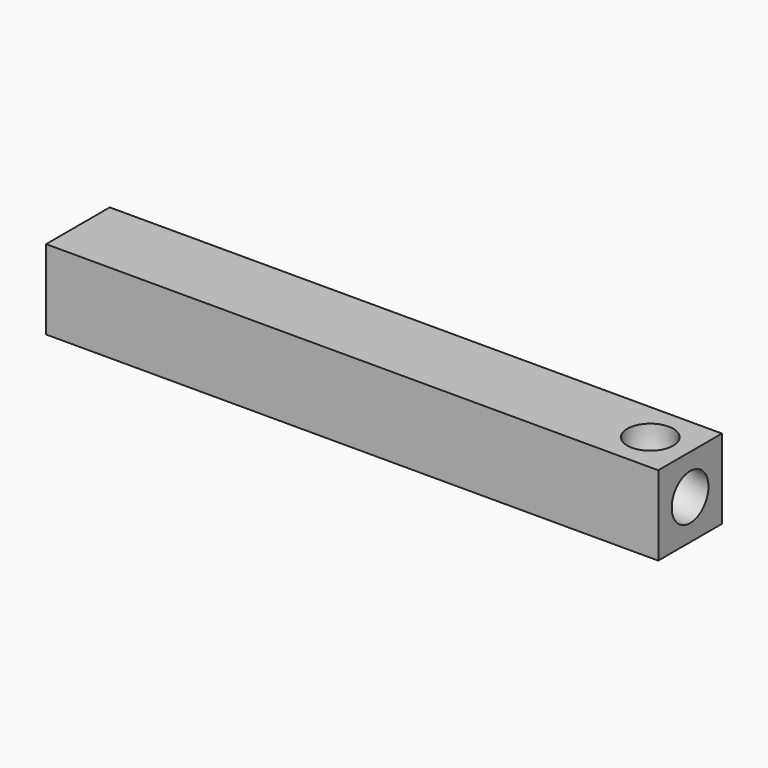
from build123d import *

# Parameters (mm, degrees)
F0_W     = 25.4
F0_H     = 3.302
F1_DEPTH = 3.302
F2_R     = 1
F3_DEPTH = 5.08
F4_R     = 0.9525


with BuildPart() as f1:
    # F0 (on Top) → F1 (new body)
    with BuildSketch(Plane.XY):
        with Locations((12.7, 1.651)):
            Rectangle(F0_W, F0_H)
    extrude(amount=F1_DEPTH)

    # F2 (on face) → F3 (cut)
    with BuildSketch(Plane(origin=(0, 0, 0), x_dir=(0, -1, 0), z_dir=(-1, 0, 0))):
        with Locations((-1.651, 1.651)):
            Circle(F2_R)
    extrude(amount=-F3_DEPTH, mode=Mode.SUBTRACT)

    # F7: sweep along a path in F6
    with BuildLine(Plane.XZ.offset(-1.651)) as f7_path:
        ThreePointArc((23.749, 3.302), (24.2325667043, 2.1345667043), (25.4, 1.651))
    # F4 (on face) → F7 (sweep, cut)
    with BuildSketch(Plane.YZ.offset(25.4)):
        with Locations((1.651, 1.651)):
            Circle(F4_R)
    sweep(path=f7_path.line, mode=Mode.SUBTRACT)


solid = f1.part
